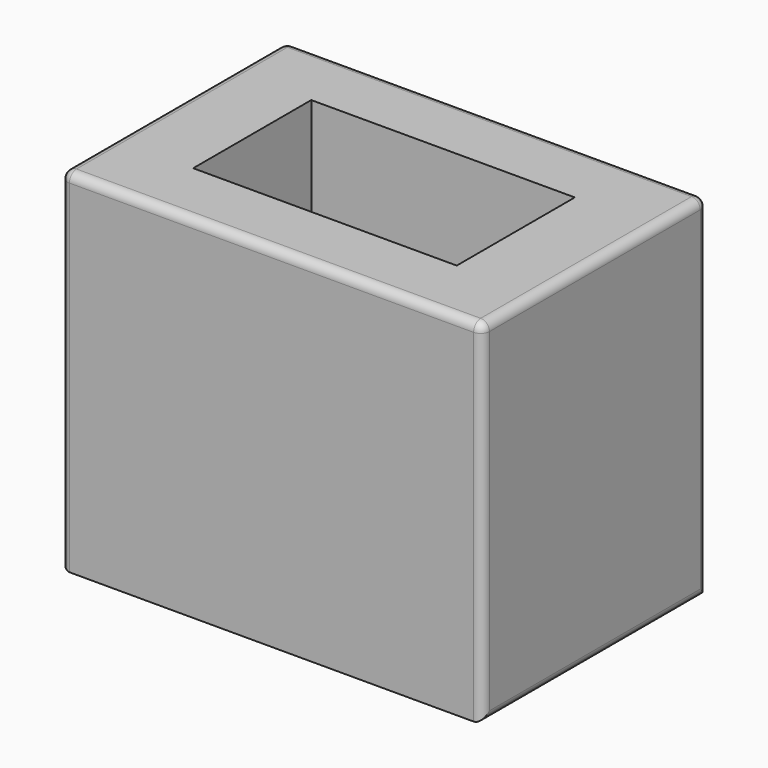
from build123d import *

# Parameters (mm, degrees)
F0_W     = 152.4
F0_H     = 101.6
F0_W_2   = 95.25
F0_H_2   = 53.34
F1_DEPTH = 127
F2_R     = 3.175


with BuildPart() as f1:
    # F0 (on Top) → F1 (new body)
    with BuildSketch(Plane.XY):
        Rectangle(F0_W, F0_H)
        Rectangle(F0_W_2, F0_H_2, mode=Mode.SUBTRACT)
    extrude(amount=F1_DEPTH)

    # F2
    f2_edges = [f1.edges().sort_by_distance(p)[0] for p in [
        (0, 50.8, 127),
        (0, -50.8, 127),
        (-76.2, 0, 127),
        (76.2, 0, 127),
        (76.2, 50.8, 63.5),
        (76.2, -50.8, 63.5),
        (-76.2, -50.8, 63.5),
        (-76.2, 50.8, 63.5),
        (0, 26.67, 0),
        (76.2, 0, 0),
        (-76.2, 0, 0),
    ]]
    fillet(f2_edges, radius=F2_R)


solid = f1.part
